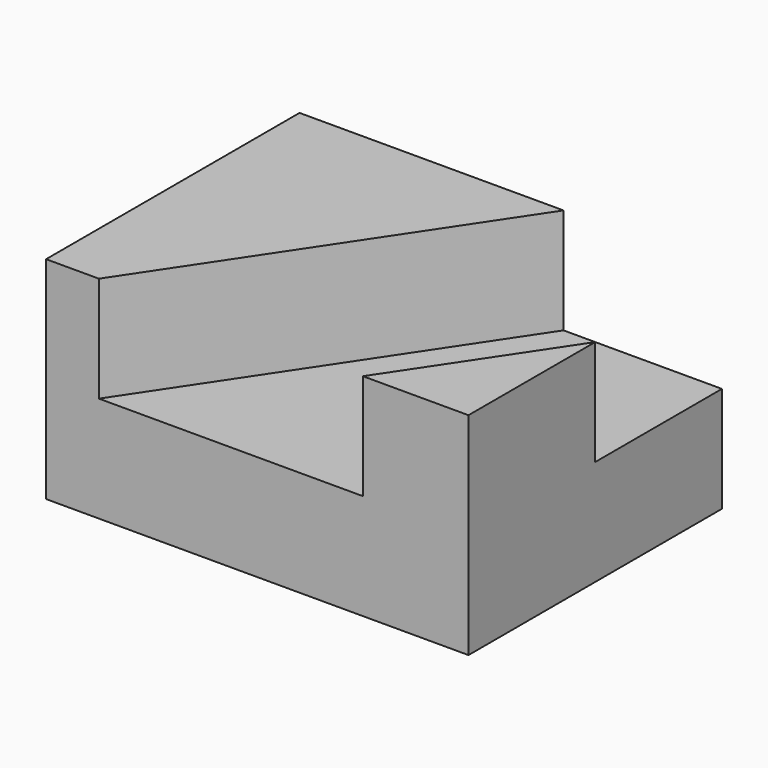
from build123d import *

# Parameters (mm, degrees)
F0_W     = 101.6
F0_H     = 76.2
F1_DEPTH = 50.8
F3_DEPTH = 25.4
F5_DEPTH = 25.4


with BuildPart() as f1:
    # F0 (on Top) → F1 (new body)
    with BuildSketch(Plane.XY):
        with Locations((10.068508, -14.225589)):
            Rectangle(F0_W, F0_H)
    extrude(amount=F1_DEPTH)

    # F2 (on face) → F3 (cut)
    with BuildSketch(Plane.XY.offset(50.8)):
        Polygon((-40.731492, -52.325589), (35.468508, -52.325589), (60.868508, -14.225589), (60.868508, 23.874411), (-40.731492, 23.874411), align=None)
    extrude(amount=-F3_DEPTH, mode=Mode.SUBTRACT)

    # F4 (on face) → F5 (join)
    with BuildSketch(Plane.XY.offset(25.4)):
        Polygon((-40.731492, 23.874411), (-40.731492, -52.325589), (-28.031492, -52.325589), (22.768508, 23.874411), align=None)
    extrude(amount=F5_DEPTH)


solid = f1.part
